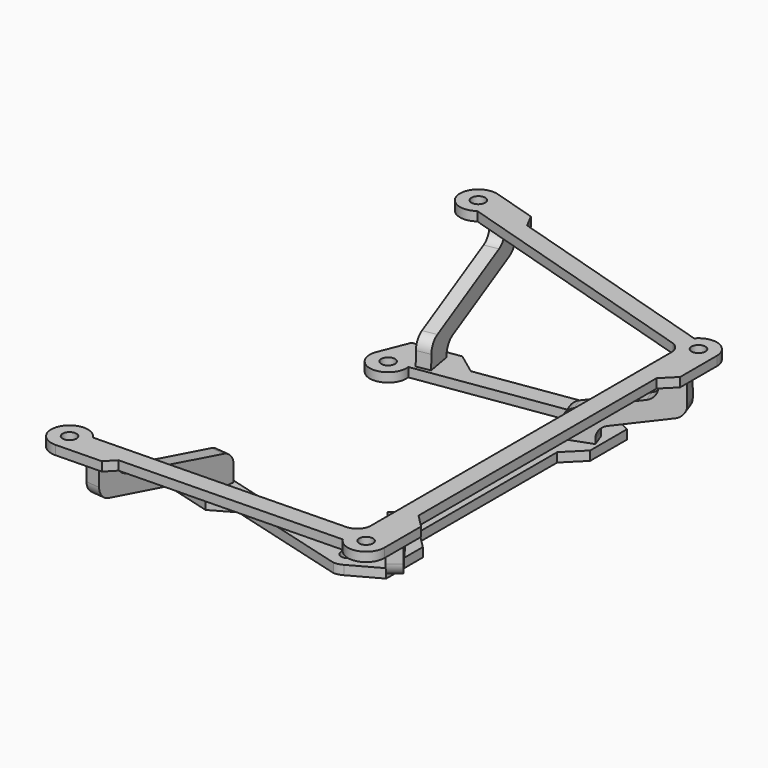
from build123d import *

# Parameters (mm, degrees)
PAD005_DEPTH = 1.5
PAD004_DEPTH = 1.5
PAD003_DEPTH = 1.5
PAD002_DEPTH = 1.5
SKETCH001_R  = 1.5
PAD001_DEPTH = 2
SKETCH_R     = 1.5
PAD_DEPTH    = 2


with BuildPart() as body005:
    # Sketch007 (on DatumPlane) → Pad005 (new body, symmetric)
    with BuildSketch(Plane(origin=(-16.952542, -59.685824, 18.8), x_dir=(0.053778, 0.550339, 0.833207), z_dir=(-0.99526, 0.097254, 0))):
        with BuildLine():
            Line((4.207597, 37.049782), (7.231669, 35.042847))
            ThreePointArc((8.366132, 31.449048), (8.433631, 33.446315), (7.231669, 35.042847))
            Line((8.366132, 31.449048), (-0.494965, 8.82738))
            ThreePointArc((-0.494965, 8.82738), (-0.562464, 6.830114), (0.639498, 5.233582))
            Line((0.639498, 5.233582), (1.08157, 4.940199))
            Line((1.08157, 4.940199), (-1.328872, 1.308117))
            Line((-1.328872, 1.308117), (-4.396585, 3.344014))
            ThreePointArc((-5.531049, 6.937813), (-5.598548, 4.940547), (-4.396585, 3.344014))
            Line((-5.531049, 6.937813), (2.654091, 27.833816))
            ThreePointArc((2.654091, 27.833816), (2.72159, 29.831082), (1.519628, 31.427615))
            Line((1.519628, 31.427615), (0.795403, 31.908248))
            Line((0.795403, 31.908248), (4.207597, 37.049782))
        make_face()
    extrude(amount=PAD005_DEPTH, both=True)


with BuildPart() as body004:
    # Sketch006 (on DatumPlane) → Pad004 (new body, symmetric)
    with BuildSketch(Plane(origin=(39.503273, -47.519607, 18.8), x_dir=(-0.346354, 0.443537, 0.826628), z_dir=(-0.788162, -0.615468, 0))):
        with BuildLine():
            Line((0.144699, 33.044069), (4.41891, 30.134283))
            ThreePointArc((5.519197, 26.54802), (5.598713, 28.534335), (4.41891, 30.134283))
            Line((5.519197, 26.54802), (-2.355235, 6.701201))
            ThreePointArc((-2.355235, 6.701201), (-2.434751, 4.714886), (-1.254948, 3.114938))
            Line((-1.254948, 3.114938), (0.091634, 2.198216))
            Line((0.091634, 2.198216), (-2.385169, -1.439983))
            Line((-2.385169, -1.439983), (-6.306361, 1.229475))
            ThreePointArc((-7.406648, 4.815738), (-7.486164, 2.829423), (-6.306361, 1.229475))
            Line((-7.406648, 4.815738), (0.451851, 24.622399))
            ThreePointArc((0.451851, 24.622399), (0.531367, 26.608714), (-0.648436, 28.208662))
            Line((-0.648436, 28.208662), (-2.355831, 29.371017))
            Line((-2.355831, 29.371017), (0.144699, 33.044069))
        make_face()
    extrude(amount=PAD004_DEPTH, both=True)


with BuildPart() as body003:
    # Sketch005 (on DatumPlane) → Pad003 (new body, symmetric)
    with BuildSketch(Plane(origin=(41.677137, 29.657026, 18.8), x_dir=(-0.67671, -0.247278, 0.693482), z_dir=(0.343216, -0.939257, 0))):
        with BuildLine():
            Line((4.151211, 27.525873), (6.616561, 25.004493))
            ThreePointArc((7.066271, 21.401359), (7.448444, 23.27869), (6.616561, 25.004493))
            Line((7.066271, 21.401359), (0.269525, 9.689346))
            ThreePointArc((0.269525, 9.689346), (-0.112963, 7.814558), (0.715657, 6.089879))
            Line((0.715657, 6.089879), (2.232289, 4.53347))
            Line((2.232289, 4.53347), (-1.455914, 0.939527))
            Line((-1.455914, 0.939527), (-4.866698, 4.439767))
            ThreePointArc((-5.31283, 8.039234), (-5.695319, 6.164446), (-4.866698, 4.439767))
            Line((-5.31283, 8.039234), (1.04248, 18.990574))
            ThreePointArc((1.04248, 18.990574), (1.424653, 20.867905), (0.59277, 22.593708))
            Line((0.59277, 22.593708), (-0.133446, 23.336429))
            Line((-0.133446, 23.336429), (4.151211, 27.525873))
        make_face()
    extrude(amount=PAD003_DEPTH, both=True)


with BuildPart() as body002:
    # Sketch004 (on DatumPlane) → Pad002 (new body, symmetric)
    with BuildSketch(Plane(origin=(-18.553723, 55.942029, 16.8), x_dir=(0.089809, -0.501127, 0.860701), z_dir=(0.984318, 0.176404, 0))):
        with BuildLine():
            Line((1.898285, 33.961279), (5.220075, 31.912664))
            ThreePointArc((6.550331, 28.610308), (6.428026, 30.480147), (5.220075, 31.912664))
            Line((6.550331, 28.610308), (0.831685, 6.427524))
            ThreePointArc((0.831685, 6.427524), (0.901463, 4.698108), (1.914982, 3.295067))
            Line((1.914982, 3.295067), (2.353125, 2.960199))
            Line((2.353125, 2.960199), (-0.095233, -0.243246))
            Line((-0.095233, -0.243246), (-2.628776, 1.693113))
            ThreePointArc((-3.712073, 4.82557), (-3.642295, 3.096155), (-2.628776, 1.693113))
            Line((-3.712073, 4.82557), (1.549904, 25.236924))
            ThreePointArc((1.549904, 25.236924), (1.427599, 27.106762), (0.219648, 28.53928))
            Line((0.219648, 28.53928), (-0.986732, 29.283279))
            Line((-0.986732, 29.283279), (1.898285, 33.961279))
        make_face()
    extrude(amount=PAD002_DEPTH, both=True)


with BuildPart() as top:
    # Sketch001 → Pad001 (new body)
    with BuildSketch(Plane.XY.offset(18.8)):
        with BuildLine():
            Line((36.188295, 32.073721), (36.188295, -49.860845))
            ThreePointArc((33.254317, -52.860118), (35.33283, -51.958693), (36.188295, -49.860845))
            Line((-21.140977, -54.057499), (33.254317, -52.860118))
            ThreePointArc((-21.140977, -54.057499), (-28.061985, -54.235329), (-24.461971, -60.149031))
            Line((-24.461971, -60.149031), (-14.464393, -59.928959))
            Line((-14.464393, -59.928959), (-12.492298, -57.868088))
            Line((-12.492298, -57.868088), (35.620638, -56.808998))
            ThreePointArc((35.620638, -56.808998), (40.118305, -58.604702), (43.05, -54.75))
            Line((43.05, -54.75), (43.05, -44.75))
            Line((40.188295, -41.888295), (43.05, -44.75))
            Line((40.188295, 23.038295), (40.188295, -41.888295))
            Line((43.05, 25.9), (40.188295, 23.038295))
            Line((43.05, 35.9), (43.05, 25.9))
            ThreePointArc((43.05, 35.9), (40.440305, 39.650607), (36.016474, 38.507244))
            Line((-12.22825, 53.261331), (36.016474, 38.507244))
            Line((-13.817394, 56.250649), (-12.22825, 53.261331))
            Line((-23.380209, 59.175126), (-13.817394, 56.250649))
            ThreePointArc((-23.380209, 59.175126), (-28.493807, 54.681881), (-22.185612, 52.123598))
            Line((-22.185612, 52.123598), (34.395591, 34.82007))
            ThreePointArc((36.188295, 32.073721), (35.700454, 33.713555), (34.395591, 34.82007))
        make_face()
        with Locations((-24.55, 55.35)):
            Circle(SKETCH001_R, mode=Mode.SUBTRACT)
        with Locations((39.05, 35.9)):
            Circle(SKETCH001_R, mode=Mode.SUBTRACT)
        with Locations((39.05, -54.75)):
            Circle(SKETCH001_R, mode=Mode.SUBTRACT)
        with Locations((-24.55, -56.15)):
            Circle(SKETCH001_R, mode=Mode.SUBTRACT)
    extrude(amount=-PAD001_DEPTH)


with BuildPart() as fusion004:
    # Sketch → Pad (new body)
    with BuildSketch(Plane.XY):
        with BuildLine():
            Line((-15.587757, 25.048294), (15.600787, 29.714611))
            ThreePointArc((15.600787, 29.714611), (17.07661, 27.20638), (19.861672, 26.362161))
            Line((19.861672, 26.362161), (19.861672, -31.312161))
            ThreePointArc((19.861672, -31.312161), (17.312602, -31.984272), (15.735331, -34.096547))
            Line((15.735331, -34.096547), (-15.658451, -25.425119))
            ThreePointArc((-15.658451, -25.425119), (-19.612693, -20.500491), (-23.410642, -25.546635))
            Line((-23.410642, -25.546635), (-21.64152, -32.072076))
            Line((-21.64152, -32.072076), (-12.002466, -34.734526))
            Line((-12.002466, -34.734526), (-7.081864, -31.943884))
            Line((-7.081864, -31.943884), (19.55, -39.3))
            ThreePointArc((19.55, -39.3), (20.543648, -39.174618), (21.475002, -38.806332))
            Line((27.861672, -35.3), (21.475002, -38.806332))
            Line((27.861672, -25.3), (27.861672, -35.3))
            Line((23.861672, -21.3), (27.861672, -25.3))
            Line((23.861672, 16.35), (23.861672, -21.3))
            Line((27.861672, 20.35), (23.861672, 16.35))
            Line((27.861672, 30.35), (27.861672, 20.35))
            Line((21.475001, 33.856333), (27.861672, 30.35))
            ThreePointArc((21.475001, 33.856333), (20.543647, 34.224618), (19.55, 34.35))
            Line((-6.289475, 30.483992), (19.55, 34.35))
            Line((-10.83732, 33.848082), (-6.289475, 30.483992))
            Line((-20.72724, 32.368388), (-10.83732, 33.848082))
            Line((-23.267202, 25.977299), (-20.72724, 32.368388))
            ThreePointArc((-23.267202, 25.977299), (-20.030389, 20.528952), (-15.587757, 25.048294))
        make_face()
        with Locations((-19.55, 24.5)):
            Circle(SKETCH_R, mode=Mode.SUBTRACT)
        with Locations((19.55, 30.35)):
            Circle(SKETCH_R, mode=Mode.SUBTRACT)
        with Locations((19.55, -35.3)):
            Circle(SKETCH_R, mode=Mode.SUBTRACT)
        with Locations((-19.55, -24.5)):
            Circle(SKETCH_R, mode=Mode.SUBTRACT)
    extrude(amount=PAD_DEPTH)

    # Fusion: union top
    add(top.part)

    # Fusion001: union Body002
    add(body002.part)

    # Fusion002: union Body003
    add(body003.part)

    # Fusion003: union Body004
    add(body004.part)

    # Fusion004: union Body005
    add(body005.part)


solid = fusion004.part
